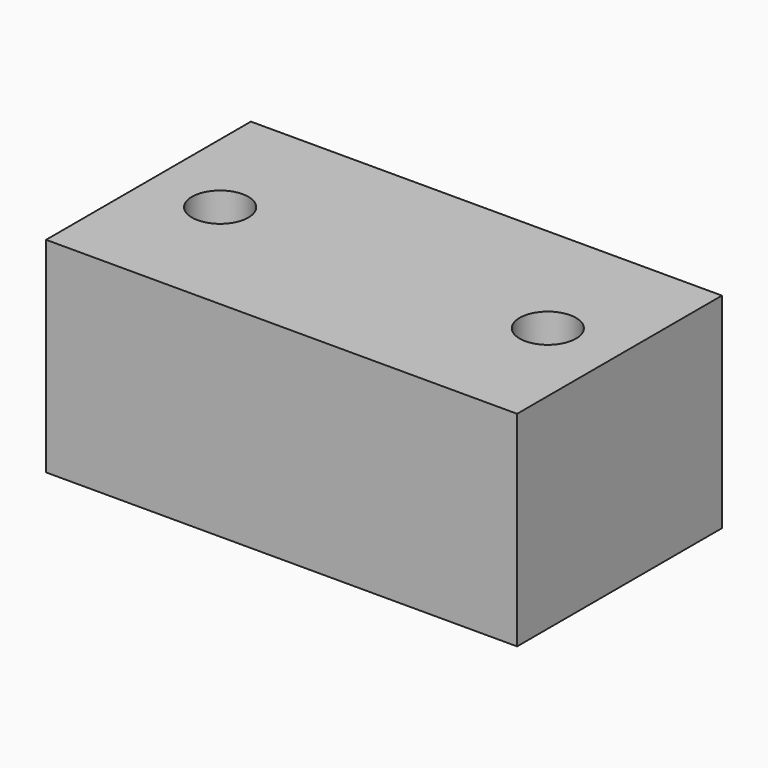
from build123d import *

# Parameters (mm, degrees)
F0_W     = 46
F0_H     = 25
F0_R     = 2.7559
F0_R_2   = 2.75
F1_DEPTH = 20


with BuildPart() as f1:
    # F0 (on Top) → F1 (new body)
    with BuildSketch(Plane.XY):
        Rectangle(F0_W, F0_H)
        with Locations((-15.99999, 0)):
            Circle(F0_R, mode=Mode.SUBTRACT)
        with Locations((16.00001, 0)):
            Circle(F0_R_2, mode=Mode.SUBTRACT)
    extrude(amount=F1_DEPTH)


solid = f1.part
